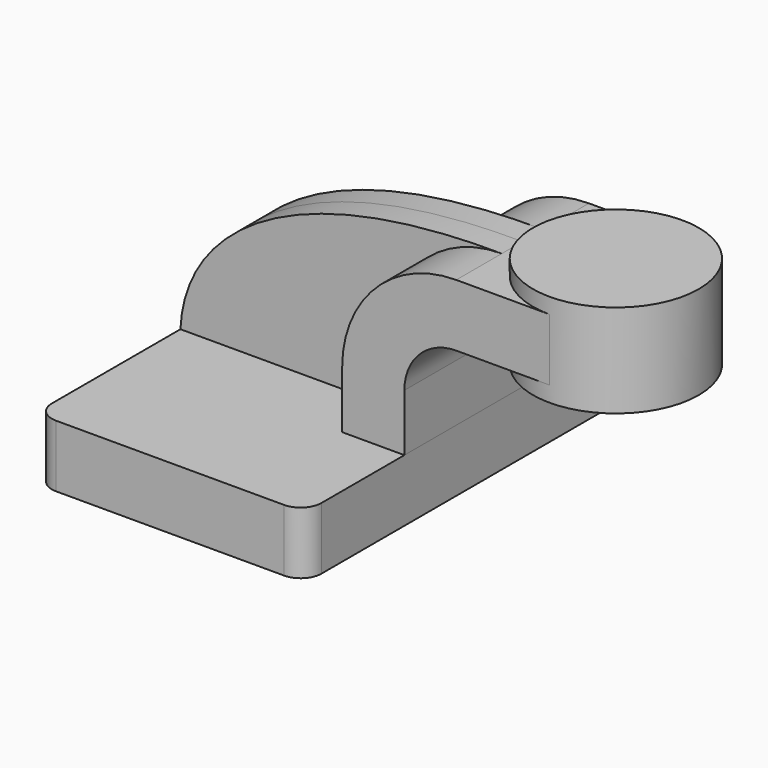
from build123d import *

# Parameters (mm, degrees)
F1_DEPTH = 63.5
F0_W     = 25.4
F0_H     = 19.05
F2_DEPTH = 25.4
F3_DEPTH = 7.9375
F5_R     = 6.35


with BuildPart() as f1:
    # F0 (on Front) → F1 (new body, symmetric)
    with BuildSketch(Plane.XZ):
        Polygon((-41.275, 9.525), (-41.275, -9.525), (41.275, -9.525), (41.275, 9.525), (22.225, 9.525), align=None)
    extrude(amount=F1_DEPTH, both=True)

    # F5
    f5_edges = [f1.edges().sort_by_distance(p)[0] for p in [
        (-41.275, -63.5, 0),
        (41.275, -63.5, 0),
        (-41.275, 63.5, 0),
        (41.275, 63.5, 0),
    ]]
    fillet(f5_edges, radius=F5_R)


with BuildPart() as f2:
    # F0 (on Front) → F2 (new body, symmetric)
    with BuildSketch(Plane.XZ):
        with BuildLine():
            Line((22.225, 9.525), (41.275, 9.525))
            Line((41.275, 9.525), (41.275, 27.0002))
            ThreePointArc((41.275, 27.0002), (45.9246798487, 38.2255201513), (57.15, 42.8752))
            Line((57.15, 42.8752), (60.325, 42.8752))
            Line((60.325, 42.8752), (60.325, 61.9252))
            Line((60.325, 61.9252), (57.15, 61.9252))
            ThreePointArc((57.15, 61.9252), (32.4542956671, 51.6959043329), (22.225, 27.0002))
            Line((22.225, 27.0002), (22.225, 9.525))
        make_face()
        with Locations((73.025, 52.4002)):
            Rectangle(F0_W, F0_H)
    extrude(amount=F2_DEPTH, both=True)

    # F0 (on Front) → F4 (revolve)
    with BuildSketch(Plane.XZ):
        Polygon((85.725, 66.675), (85.725, 61.9252), (85.725, 42.8752), (85.725, 38.1), (111.125, 38.1), (111.125, 66.675), align=None)
    revolve(axis=Axis((85.725, 0, 52.3875), (0, 0, 1)))


with BuildPart() as f3:
    # F0 (on Front) → F3 (new body, symmetric)
    with BuildSketch(Plane.XZ):
        with BuildLine():
            add(Edge.make_bspline(
                [(-41.275, 9.525), (-40.1333869527, 36.9227183817), (-10.6978429799, 62.4466641721), (57.15, 61.9252)],
                knots=[0, 0, 0, 0, 111.5045361635, 111.5045361635, 111.5045361635, 111.5045361635], degree=3))
            Line((-41.275, 9.525), (22.225, 9.525))
            Line((22.225, 9.525), (22.225, 27.0002))
            ThreePointArc((22.225, 27.0002), (32.4542956671, 51.6959043329), (57.15, 61.9252))
        make_face()
    extrude(amount=F3_DEPTH, both=True)


solid = Compound([f1.part, f2.part, f3.part])
